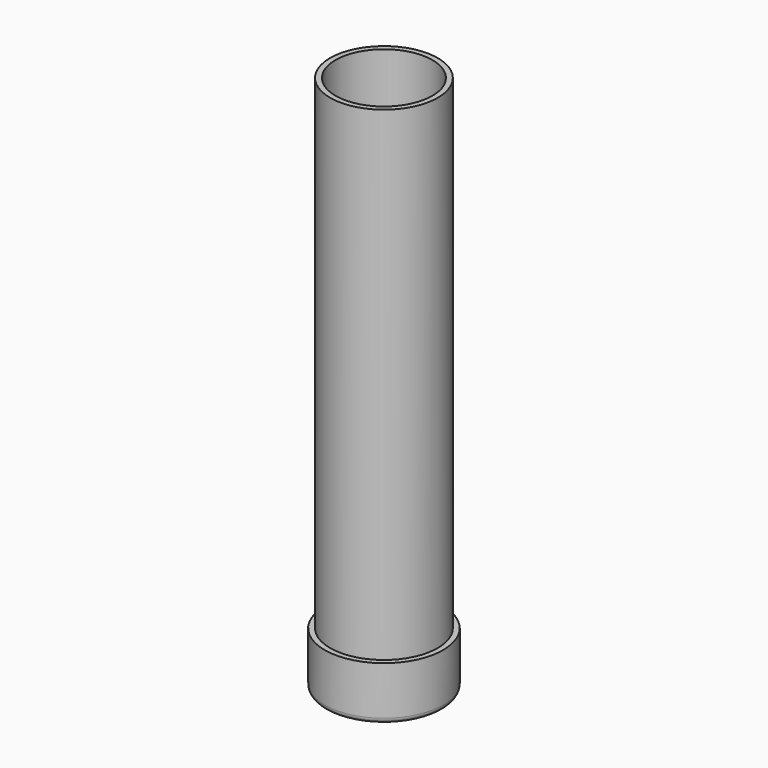
from build123d import *


with BuildPart() as f1:
    # F0 (on Front) → F1 (revolve)
    with BuildSketch(Plane.XZ):
        with BuildLine():
            Line((-50, 0), (-50, 50))
            Line((-50, 50), (-55, 50))
            Line((-55, 50), (-55, 5))
            ThreePointArc((-55, 5), (-53.5355339059, 1.4644660941), (-50, 0))
        make_face()
        Polygon((-45, 500), (-50, 500), (-50, 50), (-50, 0), (0, 0), (0, 5), (-45, 5), align=None)
    revolve(axis=Axis((0, 0, 252.5), (0, 0, -1)))


solid = f1.part
